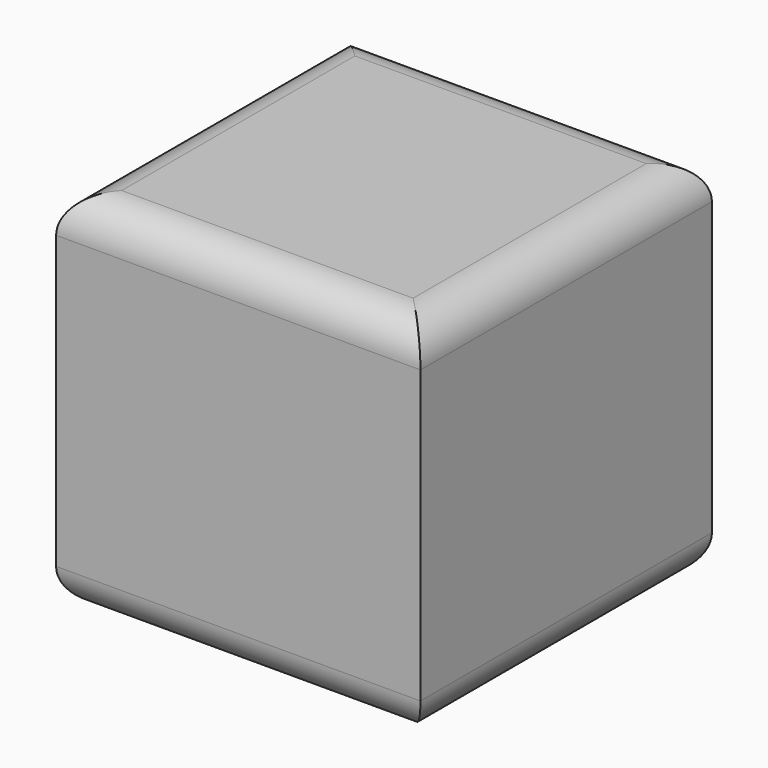
from build123d import *

# Parameters (mm, degrees)
F0_W     = 25.4
F0_H     = 25.4
F1_DEPTH = 25.4
F3_R     = 2.54
F4_R     = 2.54


with BuildPart() as f1:
    # F0 (on Top) → F1 (new body)
    with BuildSketch(Plane.XY):
        Rectangle(F0_W, F0_H)
    extrude(amount=F1_DEPTH)

    # F3
    f3_edges = [f1.edges().sort_by_distance(p)[0] for p in [
        (0, 12.7, 25.4),
        (-12.7, 0, 25.4),
        (0, -12.7, 25.4),
        (12.7, 0, 25.4),
    ]]
    fillet(f3_edges, radius=F3_R)

    # F4
    f4_edges = [f1.edges().sort_by_distance(p)[0] for p in [
        (0, 12.7, 0),
        (-12.7, 0, 0),
        (0, -12.7, 0),
        (12.7, 0, 0),
    ]]
    fillet(f4_edges, radius=F4_R)


solid = f1.part
